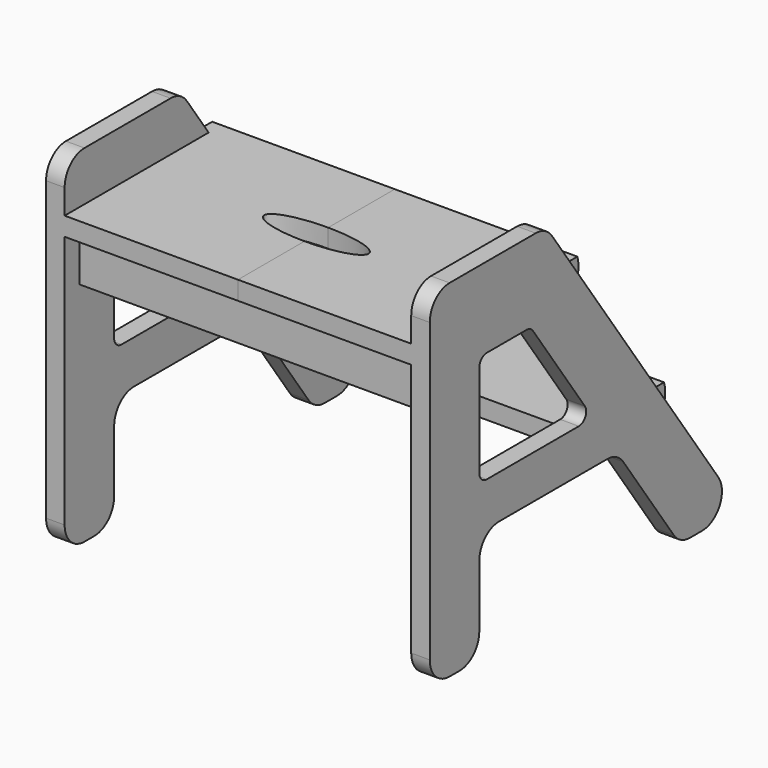
from build123d import *

# Parameters (mm, degrees)
F2_DEPTH  = 19.05
F3_W      = 9.525
F3_H      = 19.05
F4_DEPTH  = 223.52
F5_W      = 9.525
F5_H      = 19.05
F6_DEPTH  = 196.85
F8_DEPTH  = 187.325
F10_DEPTH = 25.4
F12_W     = 19.05
F12_H     = 50.8
F13_DEPTH = 355.6


with BuildPart() as f2:
    # F1 (on offset) → F2 (new body)
    with BuildSketch(Plane.YZ.offset(-177.8)):
        with BuildLine():
            Line((-64.2967833023, 0), (-48.7929460251, 0))
            ThreePointArc((-48.7929460251, 0), (-26.2628708623, 13.6715852238), (-27.9864841001, 39.9688414833))
            Line((-27.9864841001, 39.9688414833), (-241.4097417464, 344.7688414833))
            ThreePointArc((-241.4097417464, 344.7688414833), (-250.4877888952, 352.7300751627), (-262.2162036714, 355.6))
            Line((-262.2162036714, 355.6), (-372.678573608, 355.6))
            ThreePointArc((-372.678573608, 355.6), (-390.6390858501, 348.1605122421), (-398.078573608, 330.2))
            Line((-398.078573608, 330.2), (-398.078573608, 25.4))
            ThreePointArc((-398.078573608, 25.4), (-390.6390858501, 7.4394877579), (-372.678573608, 0))
            Line((-372.678573608, 0), (-359.978573608, 0))
            ThreePointArc((-359.978573608, 0), (-342.0180613659, 7.4394877579), (-334.578573608, 25.4))
            Line((-334.578573608, 25.4), (-334.578573608, 88.9))
            ThreePointArc((-334.578573608, 88.9), (-327.1390858501, 106.8605122421), (-309.178573608, 114.3))
            Line((-309.178573608, 114.3), (-170.7753110877, 114.3))
            ThreePointArc((-170.7753110877, 114.3), (-159.0468963116, 111.4300751627), (-149.9688491628, 103.4688414833))
            Line((-149.9688491628, 103.4688414833), (-85.1032452273, 10.8311585167))
            ThreePointArc((-85.1032452273, 10.8311585167), (-76.0251980785, 2.8699248373), (-64.2967833023, 0))
        make_face()
        with BuildLine():
            Line((-334.578573608, 168.275), (-334.578573608, 263.525))
            ThreePointArc((-334.578573608, 263.525), (-331.7887656988, 270.2601920908), (-325.053573608, 273.05))
            Line((-325.053573608, 273.05), (-273.669255851, 273.05))
            ThreePointArc((-273.669255851, 273.05), (-269.27110031, 271.973778186), (-265.8668326292, 268.9883155562))
            Line((-265.8668326292, 268.9883155562), (-199.1720646147, 173.7383155562))
            ThreePointArc((-199.1720646147, 173.7383155562), (-198.5257096505, 163.8768444589), (-206.9744878365, 158.75))
            Line((-206.9744878365, 158.75), (-325.053573608, 158.75))
            ThreePointArc((-325.053573608, 158.75), (-331.7887656988, 161.5398079092), (-334.578573608, 168.275))
        make_face(mode=Mode.SUBTRACT)
    extrude(amount=-F2_DEPTH)

    # F3 (on face) → F4 (cut)
    with BuildSketch(Plane.XZ.offset(398.078573608)):
        with Locations((-182.5625, 295.275)):
            Rectangle(F3_W, F3_H)
    extrude(amount=-F4_DEPTH, mode=Mode.SUBTRACT)

    # F5 (on Front) → F6 (cut)
    with BuildSketch(Plane.XZ):
        with Locations((-182.5625, 136.525)):
            Rectangle(F5_W, F5_H)
    extrude(amount=F6_DEPTH, mode=Mode.SUBTRACT)

    # F7 (on face) → F8 (join, through all)
    with BuildSketch(Plane.YZ.offset(-187.325)):
        with BuildLine():
            Line((-88.9263573526, 146.05), (-102.2653109555, 146.05))
            Line((-102.2653109555, 146.05), (-196.85, 146.05))
            Line((-196.85, 146.05), (-196.85, 127))
            Line((-196.85, 127), (-88.9263573526, 127))
            Line((-88.9263573526, 127), (-85.7513573526, 127))
            ThreePointArc((-85.7513573526, 127), (-84.2889269976, 136.525), (-85.7513573526, 146.05))
            Line((-85.7513573526, 146.05), (-88.9263573526, 146.05))
        make_face()
        Polygon((-200.0843040434, 285.75), (-213.4232576463, 304.8), (-398.078573608, 304.8), (-398.078573608, 285.75), align=None)
        with BuildLine():
            Line((-196.9093040434, 304.8), (-213.4232576463, 304.8))
            Line((-213.4232576463, 304.8), (-200.0843040434, 285.75))
            Line((-200.0843040434, 285.75), (-196.9093040434, 285.75))
            ThreePointArc((-196.9093040434, 285.75), (-195.4468736884, 295.275), (-196.9093040434, 304.8))
        make_face()
    extrude(amount=F8_DEPTH)

    # F9 (on face) → F10 (cut)
    with BuildSketch(Plane.XY.offset(304.8)):
        with BuildLine():
            add(Edge.make_bspline(
                [(-53.5818748176, -297.4939388257), (-53.5818748176, -323.8300075914), (26.7909374088, -310.6619732086), (107.1637496352, -297.4939388257), (26.7909374088, -284.3259044429), (-53.5818748176, -271.15787006), (-53.5818748176, -297.4939388257)],
                knots=[0, 0, 0, 2.0943951024, 2.0943951024, 4.1887902048, 4.1887902048, 6.2831853072, 6.2831853072, 6.2831853072], degree=2, weights=[1, 0.5, 1, 0.5, 1, 0.5, 1]))
        make_face()
    extrude(amount=-F10_DEPTH, mode=Mode.SUBTRACT)

    # F11: F2 across plane


with BuildPart() as f2_1:
    add(f2.part)
    add(f2.part.mirror(Plane.YZ))

    # F12 (on face) → F13 (join, through all)
    with BuildSketch(Plane.YZ.offset(-177.8)):
        with Locations((-369.503573608, 260.35)):
            Rectangle(F12_W, F12_H)
    extrude(amount=F13_DEPTH)

    # F14: F2 across plane


with BuildPart() as f2_2:
    add(f2_1.part)
    add(f2_1.part.mirror(Plane.YZ))


solid = f2_2.part
